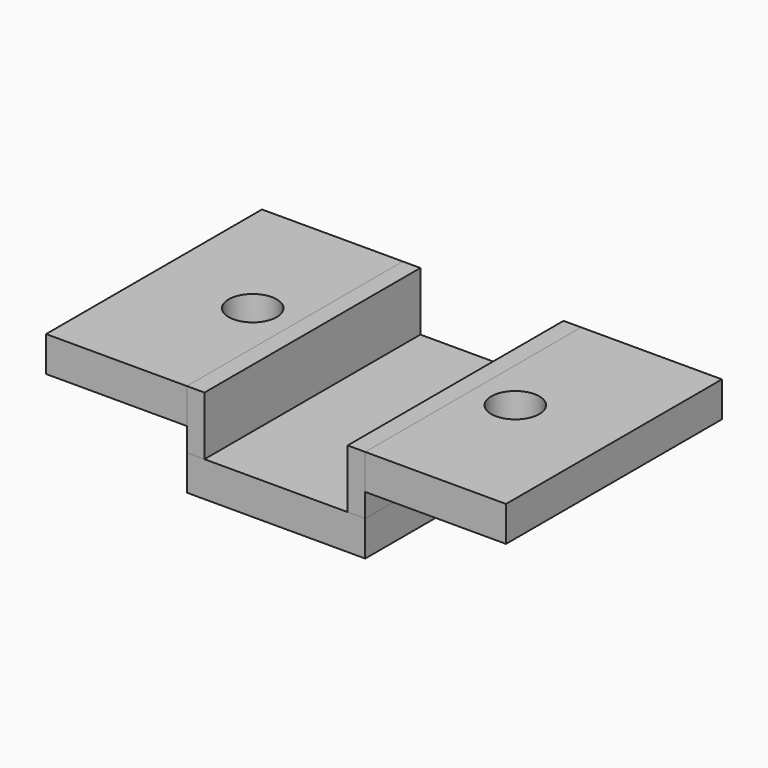
from build123d import *

# Parameters (mm, degrees)
F0_W     = 1.5
F0_H     = 23
F1_DEPTH = 5
F0_W_2   = 12
F0_R     = 2.05
F2_DEPTH = 3
F3_W     = 15.2
F3_H     = 23
F4_DEPTH = 3


with BuildPart() as f1:
    # F0 (on Top) → F1 (new body)
    with BuildSketch(Plane.XY):
        with Locations((-6.023751, -31.586234)):
            Rectangle(F0_W, F0_H)
        with Locations((7.676249, -31.586234)):
            Rectangle(F0_W, F0_H)
    extrude(amount=-F1_DEPTH)


with BuildPart() as f2:
    # F0 (on Top) → F2 (new body)
    with BuildSketch(Plane.XY):
        with Locations((-12.773751, -31.586234)):
            Rectangle(F0_W_2, F0_H)
        with Locations((-10.363751, -31.586234)):
            Circle(F0_R, mode=Mode.SUBTRACT)
        with Locations((14.426249, -31.586234)):
            Rectangle(F0_W_2, F0_H)
        with Locations((12.016249, -31.586234)):
            Circle(F0_R, mode=Mode.SUBTRACT)
    extrude(amount=-F2_DEPTH)


with BuildPart() as f4:
    # F3 (on face) → F4 (new body)
    with BuildSketch(Plane(origin=(0, 0, -5), x_dir=(1, 0, 0), z_dir=(0, 0, -1))):
        with Locations((0.826249, 31.586234)):
            Rectangle(F3_W, F3_H)
    extrude(amount=F4_DEPTH)


solid = Compound([f1.part, f2.part, f4.part])
